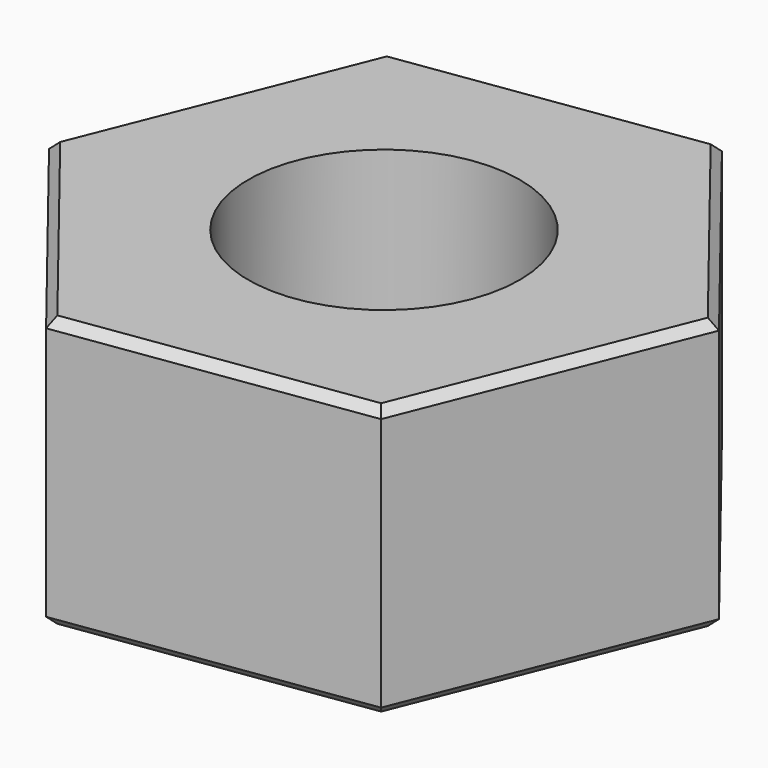
from build123d import *

# Parameters (mm, degrees)
F0_R     = 4.92125
F1_DEPTH = 9.8425
F2_SIZE  = 0.3175


with BuildPart() as f1:
    # F0 (on Top) → F1 (new body)
    with BuildSketch(Plane.XY):
        Polygon((10.88535, 1.573739), (4.079777, 10.213859), (-6.805573, 8.64012), (-10.88535, -1.573739), (-4.079777, -10.213859), (6.805573, -8.64012), align=None)
        Circle(F0_R, mode=Mode.SUBTRACT)
    extrude(amount=F1_DEPTH)

    # F2
    f2_edges = [f1.edges().sort_by_distance(p)[0] for p in [
        (-8.845461, 3.533191, 9.8425),
        (-1.362898, 9.42699, 9.8425),
        (7.482564, 5.893799, 9.8425),
        (8.845461, -3.533191, 9.8425),
        (1.362898, -9.42699, 9.8425),
        (-7.482564, -5.893799, 9.8425),
        (1.362898, -9.42699, 0),
        (8.845461, -3.533191, 0),
        (7.482564, 5.893799, 0),
        (-1.362898, 9.42699, 0),
        (-8.845461, 3.533191, 0),
        (-7.482564, -5.893799, 0),
    ]]
    chamfer(f2_edges, length=F2_SIZE)


solid = f1.part
